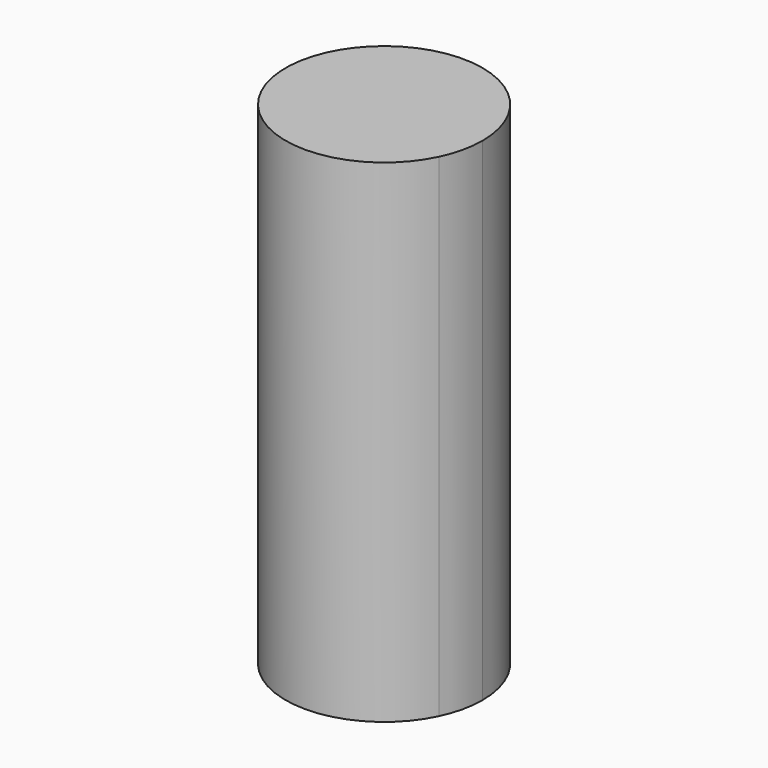
from build123d import *

# Parameters (mm, degrees)
F1_DEPTH = 12.5


with BuildPart() as f1:
    # F0 (on Top) → F1 (new body)
    with BuildSketch(Plane.XY):
        with BuildLine():
            ThreePointArc((2.254684, -1.08), (2.4379, -0.553755), (2.5, 0))
            ThreePointArc((2.5, 0), (-0.553755, 2.4379), (-2.254684, -1.08))
            Line((-2.254684, -1.08), (-1.166919, -1.08))
            ThreePointArc((-1.166919, -1.08), (-0.579956, 1.480456), (1.59, 0))
            ThreePointArc((1.59, 0), (1.480456, -0.579956), (1.166919, -1.08))
            Line((1.166919, -1.08), (2.254684, -1.08))
        make_face()
        with BuildLine():
            Line((-1.166919, -1.08), (-2.254684, -1.08))
            ThreePointArc((-2.254684, -1.08), (0, -2.5), (2.254684, -1.08))
            Line((2.254684, -1.08), (1.166919, -1.08))
            ThreePointArc((1.166919, -1.08), (0, -1.59), (-1.166919, -1.08))
        make_face()
        with BuildLine():
            Line((1.166919, -1.08), (-1.166919, -1.08))
            ThreePointArc((-1.166919, -1.08), (0, -1.59), (1.166919, -1.08))
        make_face()
        with BuildLine():
            ThreePointArc((1.59, 0), (-0.579956, 1.480456), (-1.166919, -1.08))
            Line((-1.166919, -1.08), (1.166919, -1.08))
            ThreePointArc((1.166919, -1.08), (1.480456, -0.579956), (1.59, 0))
        make_face()
    extrude(amount=F1_DEPTH)


solid = f1.part
